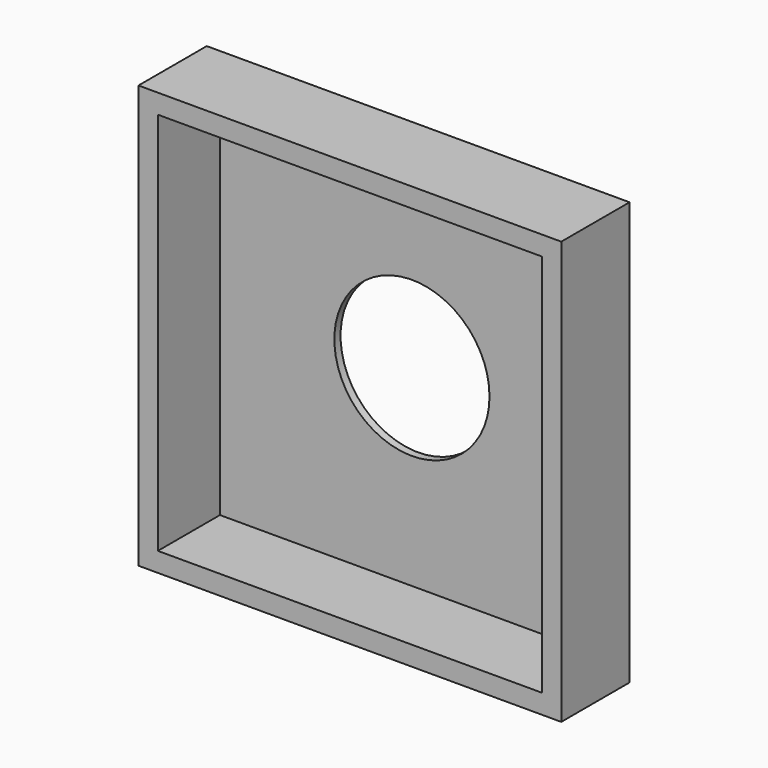
from build123d import *

# Parameters (mm, degrees)
F4_W     = 109
F4_H     = 109
F5_DEPTH = 22
F6_T     = -5
F7_DEPTH = 3
F9_D     = 40


with BuildPart() as f5:
    # F4 (on Front) → F5 (new body)
    with BuildSketch(Plane.XZ):
        Rectangle(F4_W, F4_H)
    extrude(amount=F5_DEPTH)

    # F6
    f6_openings = [f5.faces().sort_by_distance(p)[0] for p in [
        (0, -22, 0),
    ]]
    offset(amount=F6_T, openings=f6_openings)

    # F7 (cut): a face of the model
    f7_faces = [f5.faces().sort_by_distance(p)[0] for p in [
        (0, -5, 0),
    ]]
    extrude(f7_faces, amount=-F7_DEPTH, mode=Mode.SUBTRACT)

    # F9 (through all)
    with Locations(Plane(origin=(0, 0, 0), x_dir=(-1, 0, 0), z_dir=(0, 1, 0))):
        with Locations((0, 0)):
            Hole(F9_D / 2)


solid = f5.part
